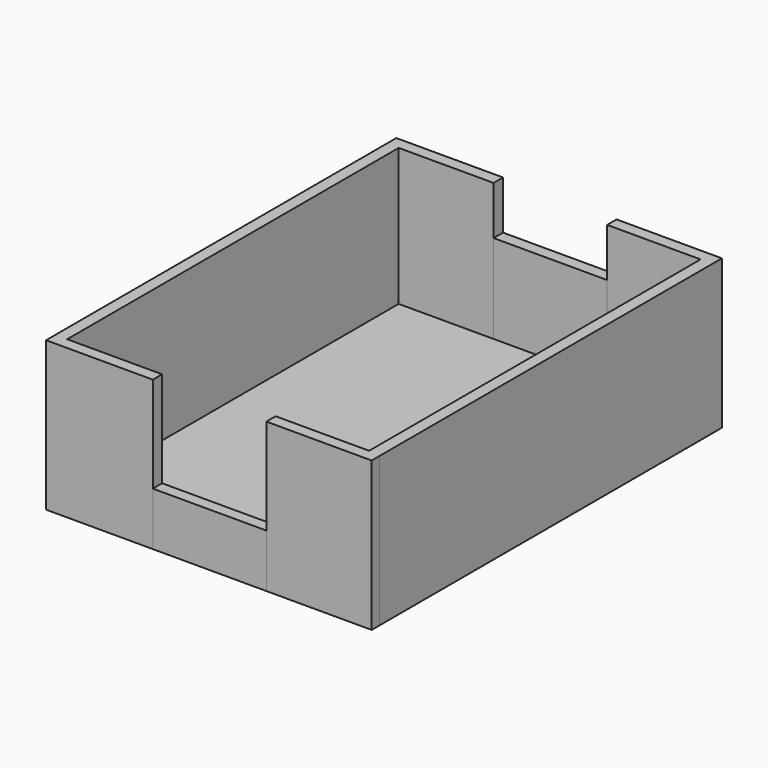
from build123d import *

# Parameters (mm, degrees)
F1_DEPTH = 12.6
F2_DEPTH = 12.6
F0_W     = 9.590229
F0_H     = 0.979104
F3_DEPTH = 4.5
F0_H_2   = 1
F4_DEPTH = 8.5
F5_DEPTH = 1


with BuildPart() as f1:
    # F0 (on Top) → F1 (new body)
    with BuildSketch(Plane.XY):
        Polygon((5.743297, 8.233304), (5.743297, 7.233304), (13.638665, 7.233304), (13.638665, -27.766696), (5.743297, -27.766696), (5.743297, -28.7458), (14.640459, -28.7458), (14.638665, -27.921008), (14.638665, 8.233304), (13.620233, 8.233304), align=None)
    extrude(amount=F1_DEPTH)


with BuildPart() as f2:
    # F0 (on Top) → F2 (new body)
    with BuildSketch(Plane.XY):
        Polygon((-11.861335, -27.766696), (-11.861335, 7.233304), (-3.846932, 7.233304), (-3.846932, 8.233304), (-12.861335, 8.233304), (-12.861335, -27.921008), (-12.859039, -28.7458), (-3.846932, -28.7458), (-3.846932, -27.766696), align=None)
    extrude(amount=F2_DEPTH)


with BuildPart() as f3:
    # F0 (on Top) → F3 (new body)
    with BuildSketch(Plane.XY):
        with Locations((0.948183, -28.256248)):
            Rectangle(F0_W, F0_H)
    extrude(amount=F3_DEPTH)


with BuildPart() as f4:
    # F0 (on Top) → F4 (new body)
    with BuildSketch(Plane.XY):
        with Locations((0.948183, 7.733304)):
            Rectangle(F0_W, F0_H_2)
    extrude(amount=F4_DEPTH)


with BuildPart() as f5:
    # F0 (on Top) → F5 (new body)
    with BuildSketch(Plane.XY):
        Polygon((-3.846932, 7.233304), (-11.861335, 7.233304), (-11.861335, -27.766696), (-3.846932, -27.766696), (5.743297, -27.766696), (13.638665, -27.766696), (13.638665, 7.233304), (5.743297, 7.233304), align=None)
    extrude(amount=F5_DEPTH)


solid = Compound([f1.part, f2.part, f3.part, f4.part, f5.part])
